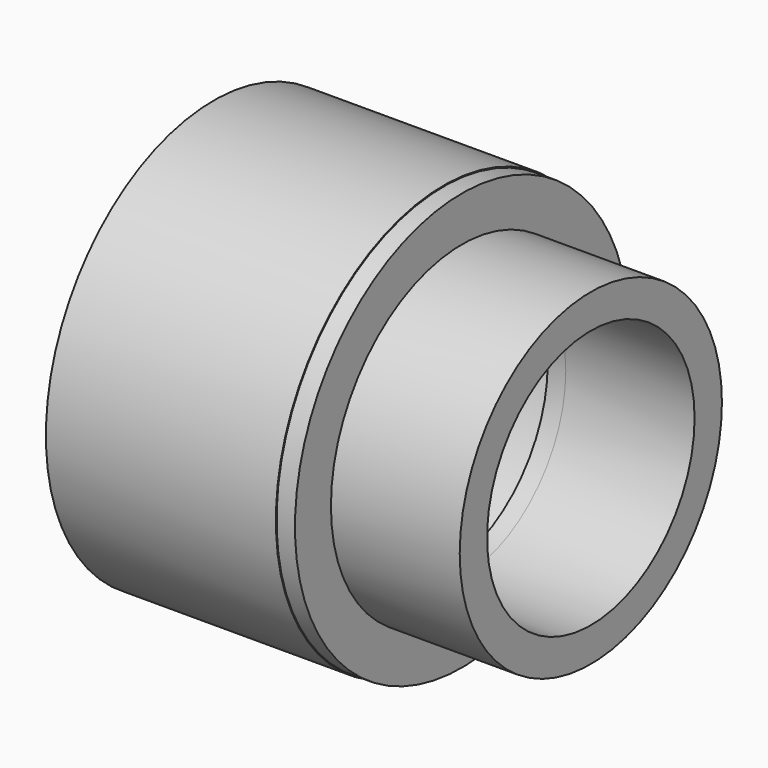
from build123d import *

# Parameters (mm, degrees)
F0_R     = 28.956
F0_R_2   = 26.67
F1_DEPTH = 31.75
F2_R     = 28.829682
F3_DEPTH = 2.54
F4_R     = 22.625614
F4_R_2   = 17.907
F5_DEPTH = 17.78
F6_R     = 17.965029
F7_DEPTH = 2.54


with BuildPart() as f1:
    # F0 (on Right) → F1 (new body)
    with BuildSketch(Plane.YZ):
        Circle(F0_R)
        Circle(F0_R_2, mode=Mode.SUBTRACT)
    extrude(amount=F1_DEPTH)

    # F2 (on face) → F3 (join)
    with BuildSketch(Plane.YZ.offset(31.75)):
        Circle(F2_R)
    extrude(amount=F3_DEPTH)

    # F4 (on face) → F5 (join)
    with BuildSketch(Plane.YZ.offset(34.29)):
        Circle(F4_R)
        Circle(F4_R_2, mode=Mode.SUBTRACT)
    extrude(amount=F5_DEPTH)

    # F6 (on face) → F7 (cut, through all)
    with BuildSketch(Plane.YZ.offset(34.29)):
        Circle(F6_R)
    extrude(amount=-F7_DEPTH, mode=Mode.SUBTRACT)


solid = f1.part
